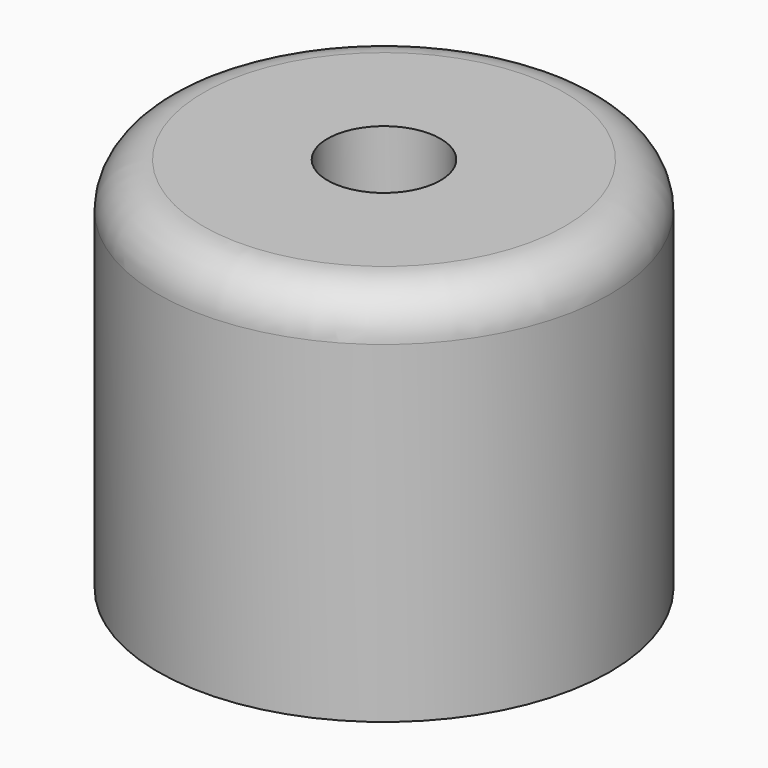
from build123d import *

# Parameters (mm, degrees)
F0_R     = 25.4
F1_DEPTH = 42.42933
F2_R     = 6.35
F3_DEPTH = 12.7
F4_R     = 5.08


with BuildPart() as f1:
    # F0 (on Top) → F1 (new body)
    with BuildSketch(Plane.XY):
        Circle(F0_R)
    extrude(amount=F1_DEPTH)

    # F2 (on face) → F3 (cut)
    with BuildSketch(Plane.XY.offset(42.42933)):
        Circle(F2_R)
    extrude(amount=-F3_DEPTH, mode=Mode.SUBTRACT)

    # F4
    f4_edges = [f1.edges().sort_by_distance(p)[0] for p in [
        (-25.4, 0, 42.42933),
    ]]
    fillet(f4_edges, radius=F4_R)


solid = f1.part
